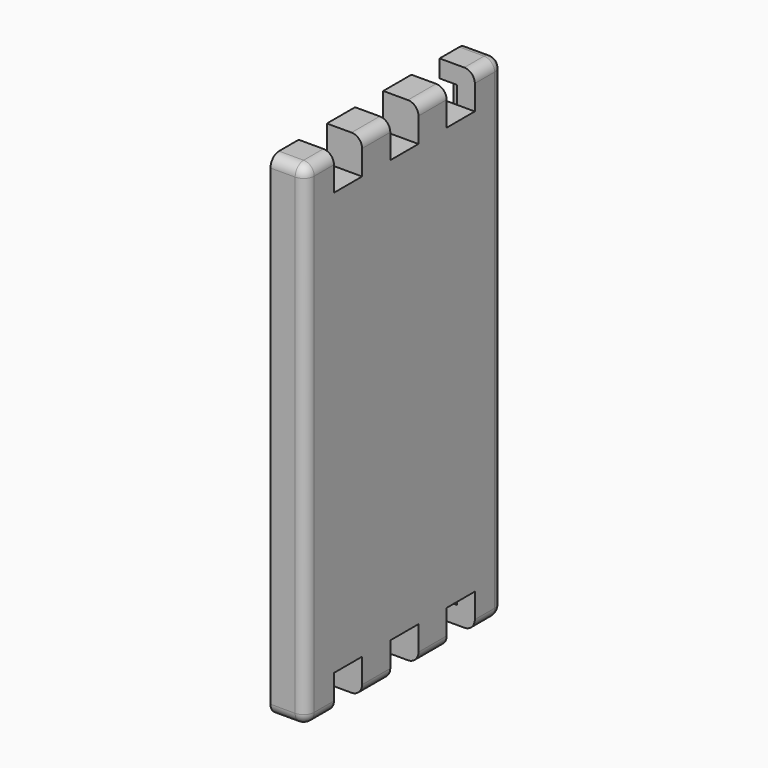
from build123d import *

# Parameters (mm, degrees)
SKETCH_W        = 70
SKETCH_H        = 140
PAD_DEPTH       = 10
FILLET_R        = 3
FILLET001_R     = 3
SKETCH001_W     = 10
SKETCH001_H     = 10
POCKET_DEPTH    = 10.001
POCKET001_DEPTH = 5
FILLET002_R     = 3
FILLET003_R     = 3


with BuildPart() as part:
    # Sketch → Pad (new body)
    with BuildSketch(Plane.YZ):
        Rectangle(SKETCH_W, SKETCH_H)
    extrude(amount=PAD_DEPTH)

    # Fillet
    fillet_edges = [part.edges().sort_by_distance(p)[0] for p in [
        (10, 0, 70),
    ]]
    fillet(fillet_edges, radius=FILLET_R)

    # Fillet001
    fillet001_edges = [part.edges().sort_by_distance(p)[0] for p in [
        (10, 0, -70),
    ]]
    fillet(fillet001_edges, radius=FILLET001_R)

    # Sketch001 (on Face7 of Fillet001) → Pocket (cut, through all)
    with BuildSketch(Plane(origin=(0, 0, 0), x_dir=(0, 1, 0), z_dir=(-1, 0, 0))):
        with Locations((-20, 65)):
            Rectangle(SKETCH001_W, SKETCH001_H)
        with Locations((0, 65)):
            Rectangle(SKETCH001_W, SKETCH001_H)
        with Locations((20, 65)):
            Rectangle(SKETCH001_W, SKETCH001_H)
        with Locations((-20, -65)):
            Rectangle(SKETCH001_W, SKETCH001_H)
        with Locations((0, -65)):
            Rectangle(SKETCH001_W, SKETCH001_H)
        with Locations((20, -65)):
            Rectangle(SKETCH001_W, SKETCH001_H)
    extrude(amount=-POCKET_DEPTH, mode=Mode.SUBTRACT)

    # Sketch002 (on Face7 of Pocket) → Pocket001 (cut)
    with BuildSketch(Plane(origin=(0, 0, 0), x_dir=(0, 1, 0), z_dir=(-1, 0, 0))):
        with BuildLine():
            ThreePointArc((25, -65), (27.5, -67.5), (30, -65))
            Line((30, -65), (30, 65))
            ThreePointArc((30, 65), (27.5, 67.5), (25, 65))
            Line((25, -65), (25, 65))
        make_face()
        with BuildLine():
            ThreePointArc((-30, -65), (-27.5, -67.5), (-25, -65))
            Line((-25, -65), (-25, 70))
            ThreePointArc((-25, 70), (-27.5, 72.5), (-30, 70))
            Line((-30, -65), (-30, 70))
        make_face()
    extrude(amount=-POCKET001_DEPTH, mode=Mode.SUBTRACT)

    # Fillet002
    fillet002_edges = [part.edges().sort_by_distance(p)[0] for p in [
        (10, -35, 0),
    ]]
    fillet(fillet002_edges, radius=FILLET002_R)

    # Fillet003
    fillet003_edges = [part.edges().sort_by_distance(p)[0] for p in [
        (10, 35, 0),
    ]]
    fillet(fillet003_edges, radius=FILLET003_R)


solid = part.part
